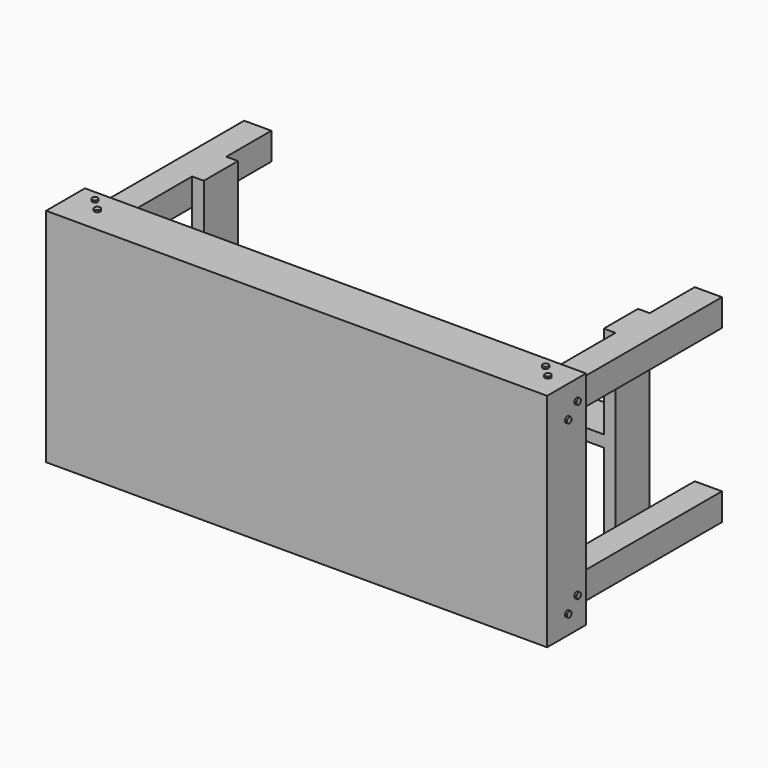
from build123d import *

# Parameters (mm, degrees)
F0_W           = 1638.3
F0_H           = 723.9
F1_DEPTH       = 19.05
F2_W           = 1638.3
F2_H           = 723.9
F3_DEPTH       = 139.7
F5_W           = 1562.1
F5_H           = 647.7
F6_DEPTH       = 139.7
F4_W           = 88.9
F4_H           = 88.9
F7_DEPTH       = 139.7
F7_DEPTH_BACK  = 622.3
F8_W           = 38.1
F8_H           = 139.7
F9_DEPTH       = 647.7
F10_W          = 38.1
F10_H          = 139.7
F11_DEPTH      = 647.7
F12_SIZE       = 19.05
F13_R          = 9.525
F14_DEPTH      = 6.35
F14_DEPTH_BACK = 76.2
F15_W          = 139.7
F15_H          = 38.1
F16_DEPTH      = 1308.1
F17_W          = 38.1
F17_H          = 38.1
F18_DEPTH      = 1384.3
F19_W          = 38.1
F19_H          = 38.1
F20_DEPTH      = 469.9
F21_W          = 38.1
F21_H          = 40.64
F22_DEPTH      = 520.7
F23_W          = 38.1
F23_H          = 38.1
F24_DEPTH      = 1384.3
F25_R          = 9.525
F26_DEPTH      = 6.35
F26_DEPTH_BACK = 76.2
F27_R          = 9.525
F28_DEPTH      = 6.35
F28_DEPTH_BACK = 76.2
F29_R          = 9.525
F30_DEPTH      = 6.35
F30_DEPTH_BACK = 76.2
F31_R          = 9.525
F32_DEPTH      = 6.35
F32_DEPTH_BACK = 76.2


with BuildPart() as f1:
    # F0 (on Front) → F1 (new body)
    with BuildSketch(Plane.XZ):
        Rectangle(F0_W, F0_H)
    extrude(amount=F1_DEPTH)

    # F2 (on face) → F3 (join)
    with BuildSketch(Plane(origin=(0, 0, 0), x_dir=(-1, 0, 0), z_dir=(0, 1, 0))):
        Rectangle(F2_W, F2_H)
    extrude(amount=F3_DEPTH)

    # F5 (on face) → F6 (cut)
    with BuildSketch(Plane(origin=(0, 139.7, 0), x_dir=(-1, 0, 0), z_dir=(0, 1, 0))):
        Rectangle(F5_W, F5_H)
    extrude(amount=-F6_DEPTH, mode=Mode.SUBTRACT)

    # F4 (on face) → F7 (join, two sides)
    with BuildSketch(Plane(origin=(0, 139.7, 0), x_dir=(-1, 0, 0), z_dir=(0, 1, 0))) as f7_sk:
        with Locations((-736.6, 279.4)):
            Rectangle(F4_W, F4_H)
        with Locations((736.6, 279.4)):
            Rectangle(F4_W, F4_H)
        with Locations((736.6, -279.4)):
            Rectangle(F4_W, F4_H)
        with Locations((-736.6, -279.4)):
            Rectangle(F4_W, F4_H)
    extrude(amount=-F7_DEPTH)
    extrude(f7_sk.sketch, amount=F7_DEPTH_BACK)

    # F8 (on face) → F9 (join)
    with BuildSketch(Plane.XY.offset(323.85)):
        with Locations((-673.1, 488.95)):
            Rectangle(F8_W, F8_H)
    extrude(amount=-F9_DEPTH)

    # F10 (on face) → F11 (join)
    with BuildSketch(Plane.XY.offset(323.85)):
        with Locations((673.1, 488.95)):
            Rectangle(F10_W, F10_H)
    extrude(amount=-F11_DEPTH)

    # F12
    f12_edges = [f1.edges().sort_by_distance(p)[0] for p in [
        (736.6, 762, -323.85),
        (781.05, 762, -279.4),
        (736.6, 762, -234.95),
        (692.15, 762, -279.4),
        (736.6, 762, 323.85),
        (692.15, 762, 279.4),
        (781.05, 762, 279.4),
        (736.6, 762, 234.95),
        (-736.6, 762, 323.85),
        (-736.6, 762, 234.95),
        (-692.15, 762, 279.4),
        (-781.05, 762, 279.4),
        (-736.6, 762, -234.95),
        (-781.05, 762, -279.4),
        (-736.6, 762, -323.85),
        (-692.15, 762, -279.4),
    ]]
    chamfer(f12_edges, length=F12_SIZE)

    # F13 (on face) → F14 (join, two sides)
    with BuildSketch(Plane.XY.offset(361.95)) as f14_sk:
        with Locations((-755.65, 101.6)):
            Circle(F13_R)
        with Locations((-717.55, 63.5)):
            Circle(F13_R)
    extrude(amount=F14_DEPTH)
    extrude(f14_sk.sketch, amount=-F14_DEPTH_BACK)

    # F15 (on face) → F16 (join)
    with BuildSketch(Plane(origin=(654.05, 0, 0), x_dir=(0, -1, 0), z_dir=(-1, 0, 0))):
        with Locations((-488.95, 0)):
            Rectangle(F15_W, F15_H)
    extrude(amount=F16_DEPTH)

    # F17 (on face) → F18 (join)
    with BuildSketch(Plane.YZ.offset(-692.15)):
        with Locations((19.05, -304.8)):
            Rectangle(F17_W, F17_H)
    extrude(amount=F18_DEPTH)

    # F19 (on face) → F20 (join)
    with BuildSketch(Plane.XY.offset(-234.95)):
        with Locations((762, 19.05)):
            Rectangle(F19_W, F19_H)
    extrude(amount=F20_DEPTH)

    # F21 (on face) → F22 (join)
    with BuildSketch(Plane.XY.offset(-234.95)):
        with Locations((-762, 20.32)):
            Rectangle(F21_W, F21_H)
    extrude(amount=F22_DEPTH)

    # F23 (on face) → F24 (join)
    with BuildSketch(Plane.YZ.offset(-692.15)):
        with Locations((19.05, 304.8)):
            Rectangle(F23_W, F23_H)
    extrude(amount=F24_DEPTH)

    # F25 (on face) → F26 (join, two sides)
    with BuildSketch(Plane.XY.offset(361.95)) as f26_sk:
        with Locations((717.55, 101.6)):
            Circle(F25_R)
        with Locations((755.65, 63.5)):
            Circle(F25_R)
    extrude(amount=F26_DEPTH)
    extrude(f26_sk.sketch, amount=-F26_DEPTH_BACK)

    # F27 (on face) → F28 (join, two sides)
    with BuildSketch(Plane(origin=(-819.15, 0, 0), x_dir=(0, -1, 0), z_dir=(-1, 0, 0))) as f28_sk:
        with Locations((-101.6, 260.35)):
            Circle(F27_R)
        with Locations((-63.5, 298.45)):
            Circle(F27_R)
        with Locations((-101.6, -298.45)):
            Circle(F27_R)
        with Locations((-63.5, -260.35)):
            Circle(F27_R)
    extrude(amount=F28_DEPTH)
    extrude(f28_sk.sketch, amount=-F28_DEPTH_BACK)

    # F29 (on face) → F30 (join, two sides)
    with BuildSketch(Plane.YZ.offset(819.15)) as f30_sk:
        with Locations((101.6, 298.45)):
            Circle(F29_R)
        with Locations((101.6, -260.35)):
            Circle(F29_R)
        with Locations((63.5, 260.35)):
            Circle(F29_R)
        with Locations((63.5, -298.45)):
            Circle(F29_R)
    extrude(amount=F30_DEPTH)
    extrude(f30_sk.sketch, amount=-F30_DEPTH_BACK)

    # F31 (on face) → F32 (join, two sides)
    with BuildSketch(Plane(origin=(0, 0, -361.95), x_dir=(1, 0, 0), z_dir=(0, 0, -1))) as f32_sk:
        with Locations((-755.65, -63.5)):
            Circle(F31_R)
        with Locations((-717.55, -101.6)):
            Circle(F31_R)
        with Locations((717.55, -63.5)):
            Circle(F31_R)
        with Locations((755.65, -101.6)):
            Circle(F31_R)
    extrude(amount=F32_DEPTH)
    extrude(f32_sk.sketch, amount=-F32_DEPTH_BACK)


solid = f1.part
